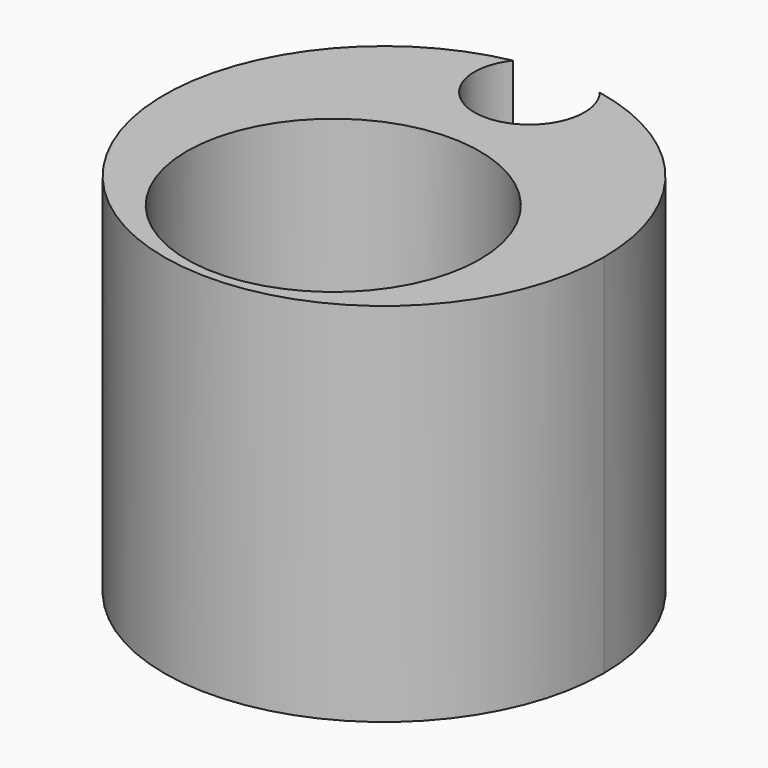
from build123d import *

# Parameters (mm, degrees)
F0_R     = 50.8
F1_DEPTH = 127


with BuildPart() as f1:
    # F0 (on Top) → F1 (new body)
    with BuildSketch(Plane.XY):
        with BuildLine():
            ThreePointArc((-15.029901, 74.703026), (-48.276089, -58.956418), (76.2, 0))
            ThreePointArc((76.2, 0), (58.956418, 48.276089), (15.029901, 74.703026))
            ThreePointArc((15.029901, 74.703026), (18.016966, 69.186139), (19.05, 62.998131))
            ThreePointArc((19.05, 62.998131), (-6.188008, 44.981165), (-15.029901, 74.703026))
        make_face()
        with Locations((0, -22.005929)):
            Circle(F0_R, mode=Mode.SUBTRACT)
    extrude(amount=F1_DEPTH)


solid = f1.part
